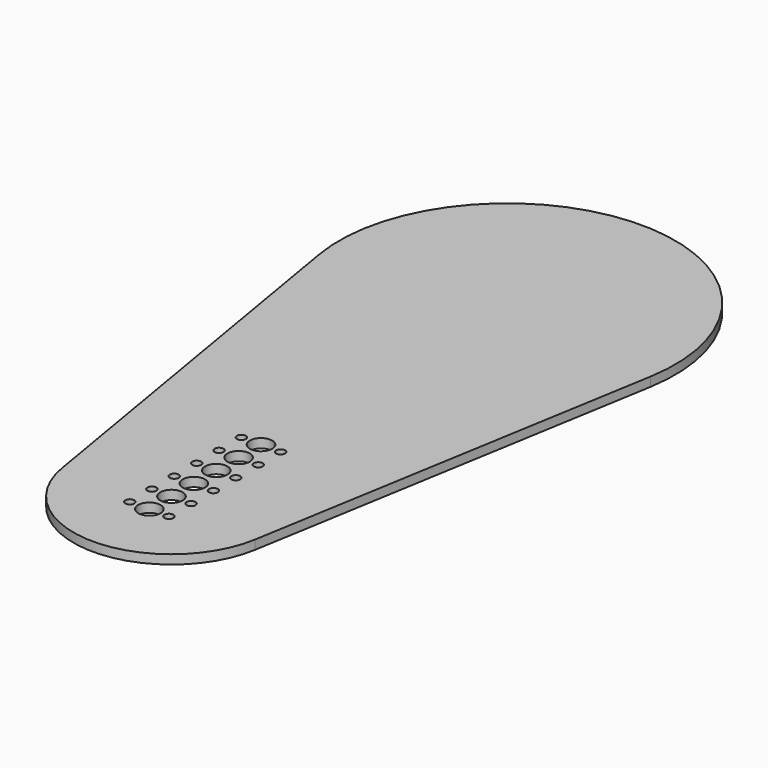
from build123d import *

# Parameters (mm, degrees)
PAD_DEPTH     = 3.25
SKETCH001_R   = 4
SKETCH001_R_2 = 1.6
POCKET_DEPTH  = 3.5


with BuildPart() as part:
    # Sketch → Pad (new body)
    with BuildSketch(Plane.XY):
        with BuildLine():
            ThreePointArc((59.160798, -10), (0, 60), (-59.160798, -10))
            Line((-59.160798, -10), (-34.510465, -155.833333))
            ThreePointArc((-34.510465, -155.833333), (0, -185), (34.510465, -155.833333))
            Line((59.160798, -10), (34.510465, -155.833333))
        make_face()
    extrude(amount=PAD_DEPTH)

    # Sketch001 (on Face6 of Pad) → Pocket (cut)
    with BuildSketch(Plane.XY.offset(3.25)):
        with Locations((0, -150)):
            Circle(SKETCH001_R)
        with Locations((-7, -150)):
            Circle(SKETCH001_R_2)
        with Locations((7, -150)):
            Circle(SKETCH001_R_2)
        with Locations((0, -130)):
            Circle(SKETCH001_R)
        with Locations((7, -130)):
            Circle(SKETCH001_R_2)
        with Locations((-7, -130)):
            Circle(SKETCH001_R_2)
        with Locations((0, -140)):
            Circle(SKETCH001_R)
        with Locations((7, -140)):
            Circle(SKETCH001_R_2)
        with Locations((-7, -140)):
            Circle(SKETCH001_R_2)
        with Locations((0, -159.875452)):
            Circle(SKETCH001_R)
        with Locations((7, -159.875452)):
            Circle(SKETCH001_R_2)
        with Locations((-7, -159.875452)):
            Circle(SKETCH001_R_2)
        with Locations((0, -120)):
            Circle(SKETCH001_R)
        with Locations((7, -120)):
            Circle(SKETCH001_R_2)
        with Locations((-7, -120)):
            Circle(SKETCH001_R_2)
        with Locations((0, -110)):
            Circle(SKETCH001_R)
        with Locations((7, -110)):
            Circle(SKETCH001_R_2)
        with Locations((-7, -110)):
            Circle(SKETCH001_R_2)
    extrude(amount=-POCKET_DEPTH, mode=Mode.SUBTRACT)


solid = part.part
